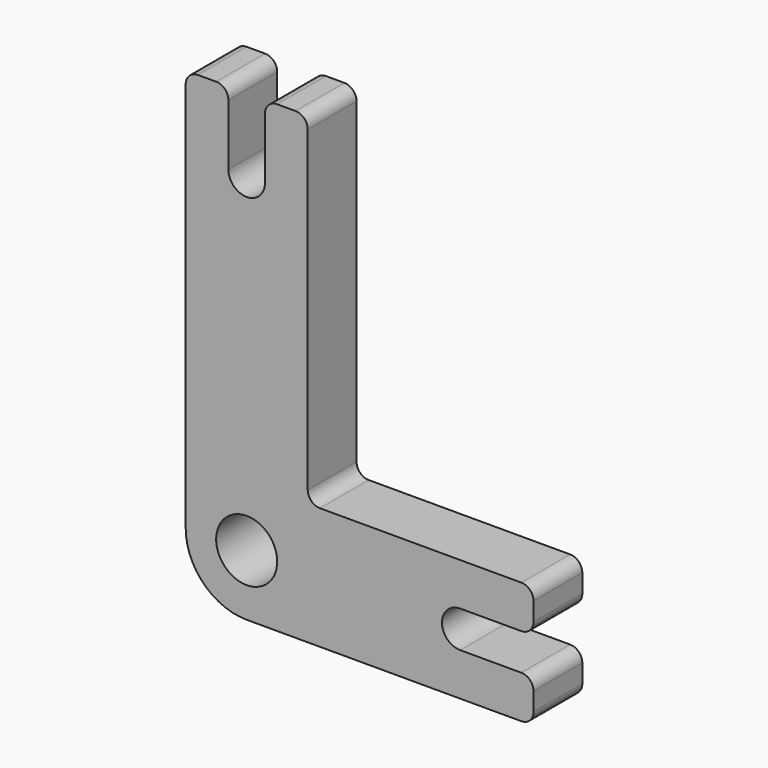
from build123d import *

# Parameters (mm, degrees)
F0_R     = 2.5
F1_DEPTH = 5


with BuildPart() as f1:
    # F0 (on Front) → F1 (new body)
    with BuildSketch(Plane.XZ):
        with BuildLine():
            Line((-2.5, 33), (-4, 33))
            ThreePointArc((-4, 33), (-4.707107, 32.707107), (-5, 32))
            Line((-5, 32), (-5, 0))
            ThreePointArc((-5, 0), (-3.535534, -3.535534), (0, -5))
            Line((0, -5), (22.5, -5))
            ThreePointArc((22.5, -5), (23.207107, -4.707107), (23.5, -4))
            Line((23.5, -4), (23.5, -2.5))
            ThreePointArc((23.5, -2.5), (23.207107, -1.792893), (22.5, -1.5))
            Line((22.5, -1.5), (17.5, -1.5))
            ThreePointArc((17.5, -1.5), (16, 0), (17.5, 1.5))
            Line((17.5, 1.5), (22.5, 1.5))
            ThreePointArc((22.5, 1.5), (23.207107, 1.792893), (23.5, 2.5))
            Line((23.5, 2.5), (23.5, 4))
            ThreePointArc((23.5, 4), (23.207107, 4.707107), (22.5, 5))
            Line((22.5, 5), (6, 5))
            ThreePointArc((6, 5), (5.292893, 5.292893), (5, 6))
            Line((5, 6), (5, 32))
            ThreePointArc((5, 32), (4.707107, 32.707107), (4, 33))
            Line((4, 33), (2.5, 33))
            ThreePointArc((2.5, 33), (1.792893, 32.707107), (1.5, 32))
            Line((1.5, 32), (1.5, 27))
            ThreePointArc((1.5, 27), (0, 25.5), (-1.5, 27))
            Line((-1.5, 27), (-1.5, 32))
            ThreePointArc((-1.5, 32), (-1.792893, 32.707107), (-2.5, 33))
        make_face()
        Circle(F0_R, mode=Mode.SUBTRACT)
    extrude(amount=F1_DEPTH)


solid = f1.part
